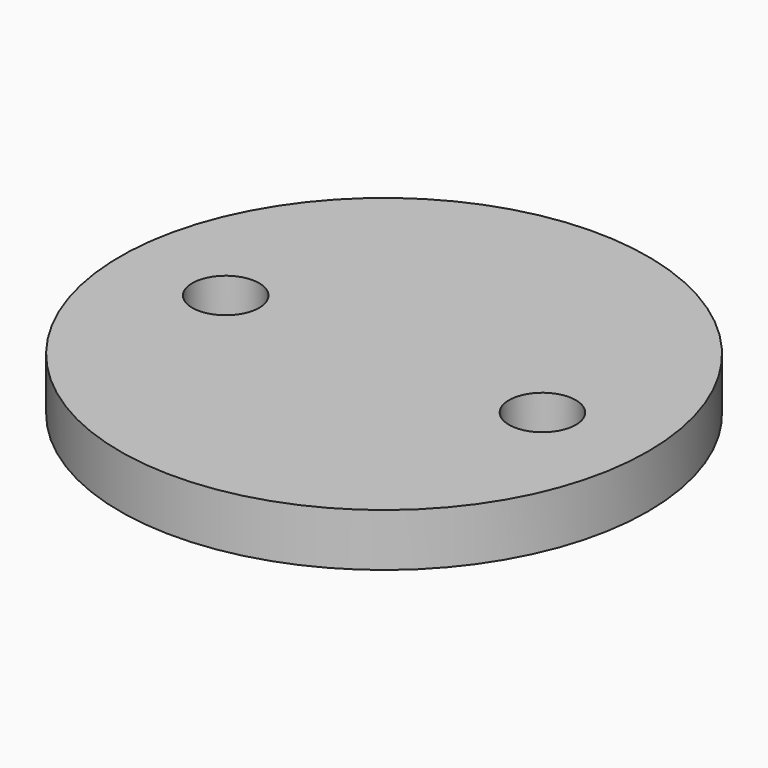
from build123d import *

# Parameters (mm, degrees)
F0_R     = 15
F1_DEPTH = 3
F2_R     = 1.9
F3_DEPTH = 25


with BuildPart() as f1:
    # F0 (on Top) → F1 (new body)
    with BuildSketch(Plane.XY):
        Circle(F0_R)
    extrude(amount=F1_DEPTH)

    # F2 (on face) → F3 (cut)
    with BuildSketch(Plane.XY.offset(3)):
        with Locations((9, 0)):
            Circle(F2_R)
        with Locations((-9, 0)):
            Circle(F2_R)
    extrude(amount=-F3_DEPTH, mode=Mode.SUBTRACT)


solid = f1.part
